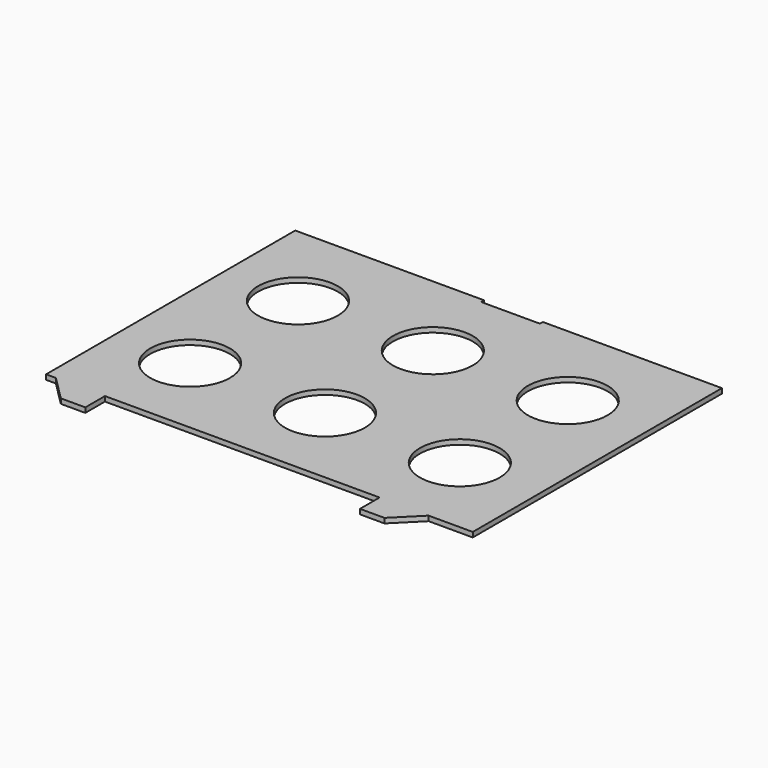
from build123d import *

# Parameters (mm, degrees)
SKETCH162_R      = 16.278821
EXTRUDE144_DEPTH = 4
ARRAY_X_COUNT    = 3
ARRAY_X_PITCH    = 55
ARRAY_Y_COUNT    = 2
ARRAY_Y_PITCH    = 55
EXTRUDE129_DEPTH = 2


with BuildPart() as array:
    # Sketch162 → Extrude144 (new body)
    with BuildSketch(Plane(origin=(0, 0, -37), x_dir=(1, 0, 0), z_dir=(0, 0, -1))):
        with Locations((222, -214.650925)):
            Circle(SKETCH162_R)
    extrude(amount=-EXTRUDE144_DEPTH)

    # Array X: Array ×3


with BuildPart() as array_1:
    add(array.part)
    with Locations(*[(i * ARRAY_X_PITCH, 0, 0) for i in range(1, ARRAY_X_COUNT)]):
        add(array.part)

    # Array Y: Array ×2


with BuildPart() as array_2:
    add(array_1.part)
    with Locations(*[(0, i * ARRAY_Y_PITCH, 0) for i in range(1, ARRAY_Y_COUNT)]):
        add(array_1.part)


with BuildPart() as cut009:
    # Sketch141 → Extrude129 (new body)
    with BuildSketch(Plane(origin=(0, 0, -34), x_dir=(1, 0, 0), z_dir=(0, 0, -1))):
        Polygon((215, -170), (205, -170), (195, -180), (191, -180), (191, -307), (268, -307), (268, -305.5), (292, -305.5), (292, -307), (365, -307), (365, -180), (347, -180), (337, -170), (327, -170), (327, -180), (215, -180), align=None)
    extrude(amount=EXTRUDE129_DEPTH)

    # Cut009: cut Array
    add(array_2.part, mode=Mode.SUBTRACT)


solid = cut009.part
